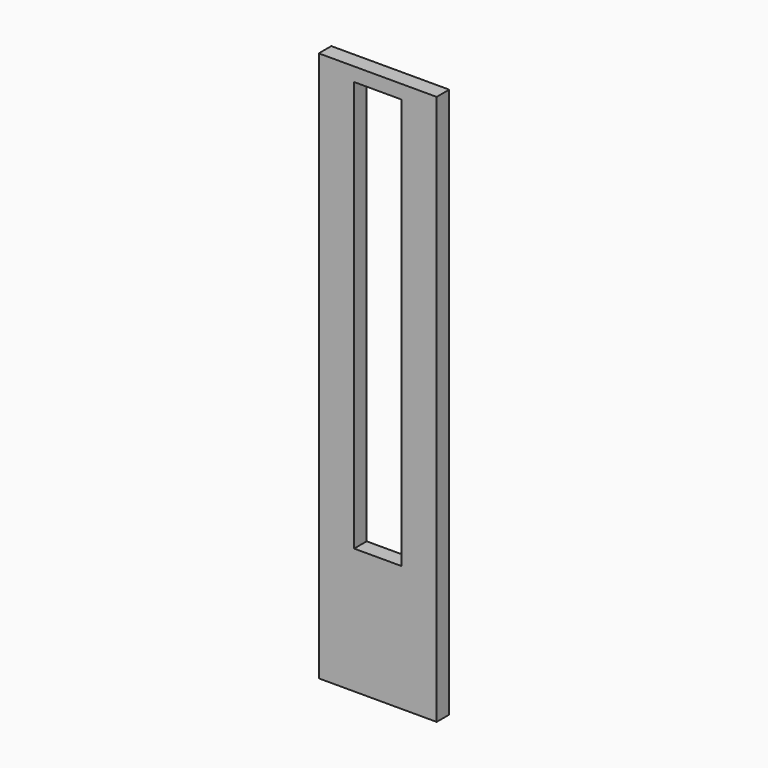
from build123d import *

# Parameters (mm, degrees)
F1_DEPTH = 40


with BuildPart() as f1:
    # F0 (on Front) → F1 (new body)
    with BuildSketch(Plane.XZ):
        Polygon((0, 583.703246), (-150, 583.703246), (-150, -816.296754), (150, -816.296754), (150, 583.703246), (50, 583.703246), (21.25, 583.703246), align=None)
        Polygon((-60, 548.703246), (0, 548.703246), (60, 548.703246), (60, 519.451317), (60, -441.296754), (60, -496.296754), (-60, -496.296754), (-60, -441.296754), align=None, mode=Mode.SUBTRACT)
    extrude(amount=F1_DEPTH)


solid = f1.part
